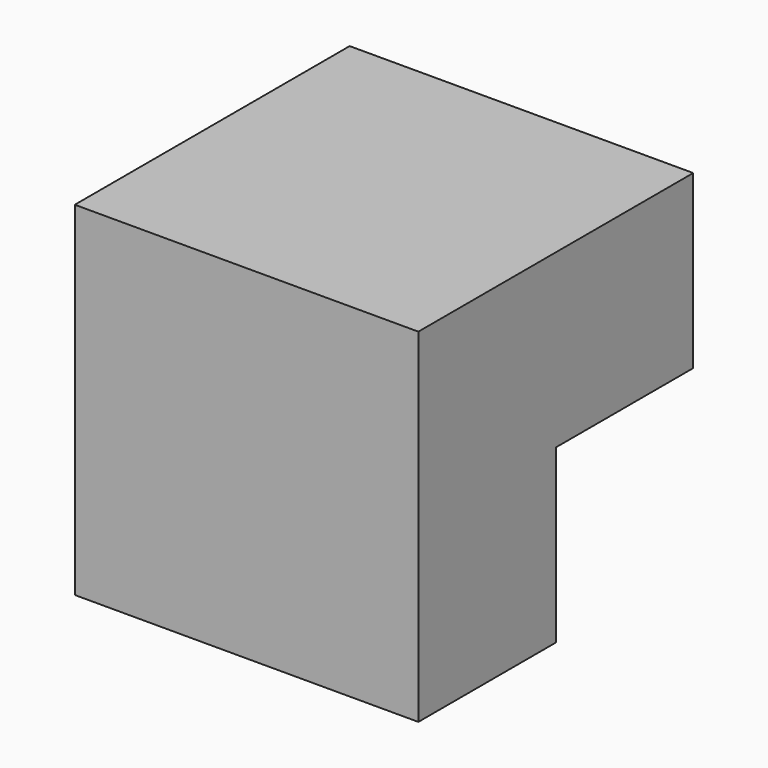
from build123d import *

# Parameters (mm, degrees)
F2_DEPTH = 50.8
F1_W     = 25.4
F1_H     = 25.4
F3_DEPTH = 25.4


with BuildPart() as f2:
    # F0 (on Front) → F2 (new body)
    with BuildSketch(Plane.XZ):
        Polygon((-25.4, 0), (0, 0), (0, 25.4), (0, 50.8), (-50.8, 50.8), (-50.8, 0), align=None)
    extrude(amount=F2_DEPTH)

    # F1 (on face) → F3 (cut)
    with BuildSketch(Plane.XZ):
        with Locations((-12.7, 12.7)):
            Rectangle(F1_W, F1_H)
    extrude(amount=F3_DEPTH, mode=Mode.SUBTRACT)


solid = f2.part
